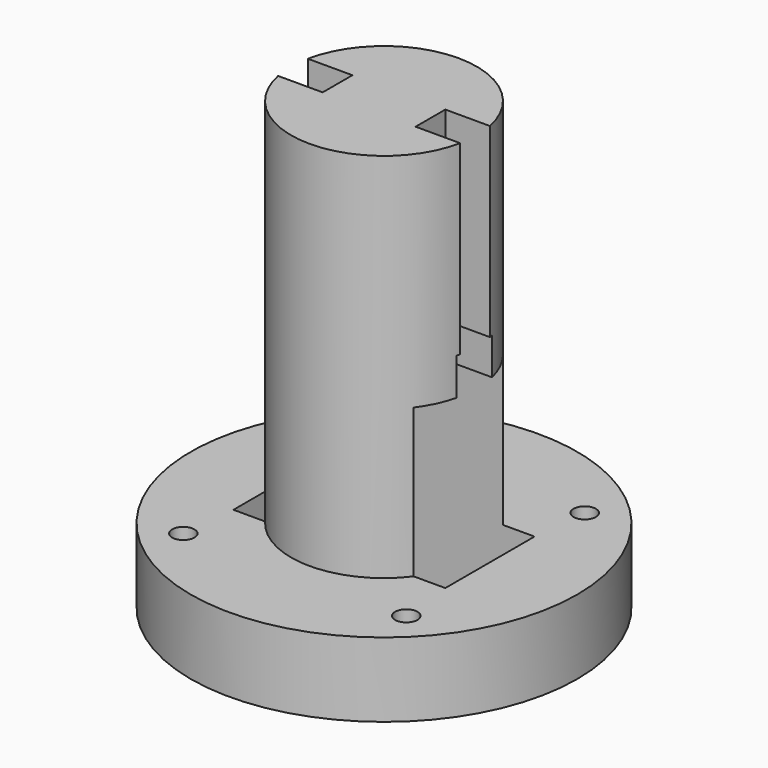
from build123d import *

# Parameters (mm, degrees)
F0_W     = 12.5
F0_H     = 50
F2_W     = 8
F2_H     = 5
F3_DEPTH = 37.5
F4_W     = 28.5
F4_H     = 6
F5_DEPTH = 35
F6_W     = 28.5
F6_H     = 4.5
F7_DEPTH = 30
F6_H_2   = 15
F6_R     = 1.5
F8_DEPTH = 11


with BuildPart() as f1:
    # F0 (on Front) → F1 (revolve)
    with BuildSketch(Plane.XZ):
        with Locations((6.25, -1.05346)):
            Rectangle(F0_W, F0_H)
        Polygon((12.5, -26.05346), (0, -26.05346), (0, -36.05346), (26, -36.05346), (26, -26.05346), align=None)
    revolve(axis=Axis((0, 0, -1.05346), (0, 0, -1)))

    # F2 (on Top) → F3 (cut, symmetric)
    with BuildSketch(Plane.XY):
        with Locations((-10.25, 0)):
            Rectangle(F2_W, F2_H)
        with Locations((10.25, 0)):
            Rectangle(F2_W, F2_H)
    extrude(amount=F3_DEPTH, both=True, mode=Mode.SUBTRACT)

    # F4 (on face) → F5 (cut)
    with BuildSketch(Plane(origin=(0, 0, -36.05346), x_dir=(1, 0, 0), z_dir=(0, 0, -1))):
        Rectangle(F4_W, F4_H)
    extrude(amount=-F5_DEPTH, mode=Mode.SUBTRACT)

    # F6 (on face) → F7 (cut)
    with BuildSketch(Plane(origin=(0, 0, -36.05346), x_dir=(1, 0, 0), z_dir=(0, 0, -1))):
        with Locations((0, 5.25)):
            Rectangle(F6_W, F6_H)
        with Locations((0, -5.25)):
            Rectangle(F6_W, F6_H)
    extrude(amount=-F7_DEPTH, mode=Mode.SUBTRACT)

    # F6 (on face) → F8 (cut)
    with BuildSketch(Plane(origin=(0, 0, -36.05346), x_dir=(1, 0, 0), z_dir=(0, 0, -1))):
        Rectangle(F6_W, F6_H_2)
        with Locations((15, -15)):
            Circle(F6_R)
        with Locations((-15, -15)):
            Circle(F6_R)
        with Locations((15, 15)):
            Circle(F6_R)
        with Locations((-15, 15)):
            Circle(F6_R)
    extrude(amount=-F8_DEPTH, mode=Mode.SUBTRACT)


solid = f1.part
